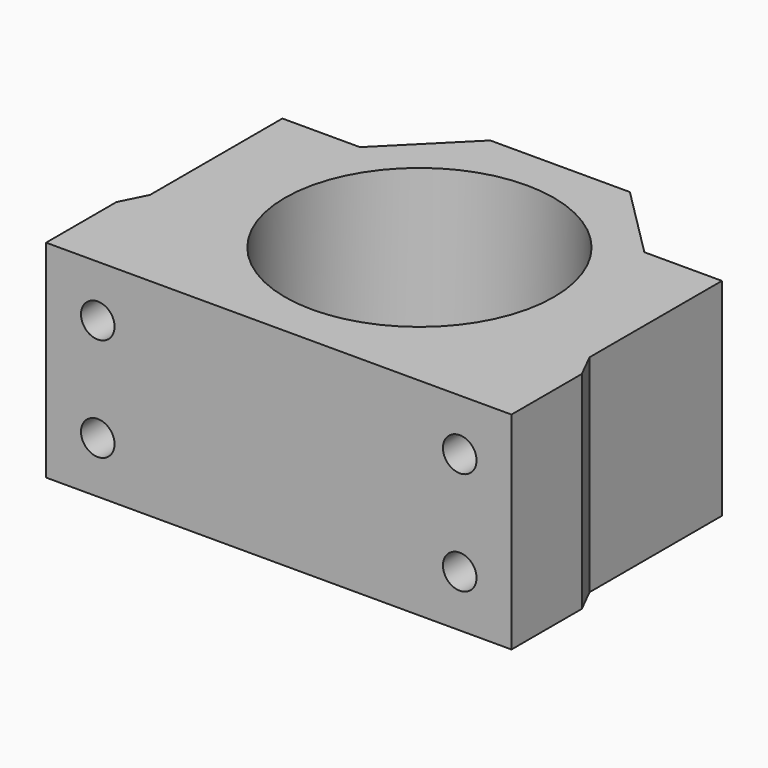
from build123d import *

# Parameters (mm, degrees)
SKETCH_R     = 26
PAD_DEPTH    = 40
SKETCH001_R  = 3.25
POCKET_DEPTH = 68.001


with BuildPart() as part:
    # Sketch → Pad (new body)
    with BuildSketch(Plane.XY):
        Polygon((-45, 0), (45, 0), (45, 17), (42.5, 22), (42.5, 54), (27.5, 54), (13.5, 68), (-13.5, 68), (-27.5, 54), (-42.5, 54), (-42.5, 22), (-45, 17), align=None)
        with Locations((0, 34)):
            Circle(SKETCH_R, mode=Mode.SUBTRACT)
    extrude(amount=PAD_DEPTH)

    # Sketch001 (on Face1 of Pad) → Pocket (cut, through all)
    with BuildSketch(Plane.XZ):
        with Locations((-35, 30)):
            Circle(SKETCH001_R)
        with Locations((-35, 10)):
            Circle(SKETCH001_R)
        with Locations((35, 10)):
            Circle(SKETCH001_R)
        with Locations((35, 30)):
            Circle(SKETCH001_R)
    extrude(amount=-POCKET_DEPTH, mode=Mode.SUBTRACT)


solid = part.part
